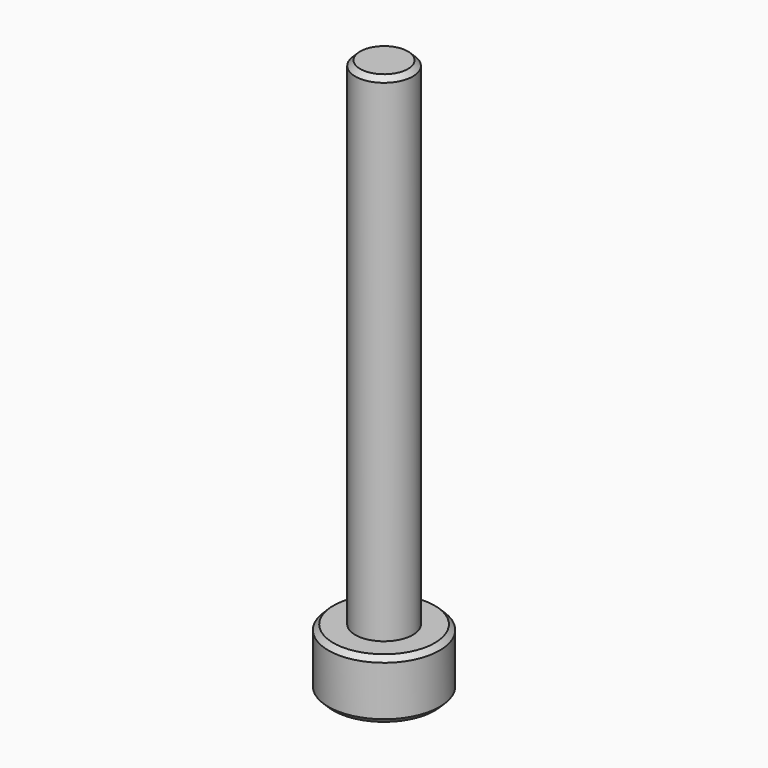
from build123d import *

# Parameters (mm, degrees)
SKETCH_R     = 2.8
PAD_DEPTH    = 3
SKETCH001_R  = 1.45
PAD001_DEPTH = 25
POCKET_DEPTH = 2
CHAMFER_SIZE = 0.25


with BuildPart() as part:
    # Sketch → Pad (new body)
    with BuildSketch(Plane.XY):
        Circle(SKETCH_R)
    extrude(amount=PAD_DEPTH)

    # Sketch001 (on Face3 of Pad) → Pad001 (join)
    with BuildSketch(Plane.XY.offset(3)):
        Circle(SKETCH001_R)
    extrude(amount=PAD001_DEPTH)

    # Sketch002 (on Face2 of Pad001) → Pocket (cut)
    with BuildSketch(Plane(origin=(0, 0, 0), x_dir=(1, 0, 0), z_dir=(0, 0, -1))):
        Polygon((1.259542, 0.814588), (-0.075682, 1.49809), (-1.335225, 0.683502), (-1.259542, -0.814588), (0.075682, -1.49809), (1.335225, -0.683502), align=None)
    extrude(amount=-POCKET_DEPTH, mode=Mode.SUBTRACT)

    # Chamfer
    chamfer_edges = [part.edges().sort_by_distance(p)[0] for p in [
        (-2.8, 0, 3),
        (-2.8, 0, 0),
        (1.297384, -0.065543, 0),
        (0.705454, 1.090796, 0),
        (-0.59193, 1.156339, 0),
        (-1.297384, 0.065543, 0),
        (-0.705454, -1.090796, 0),
        (0.59193, -1.156339, 0),
        (-1.45, 0, 28),
    ]]
    chamfer(chamfer_edges, length=CHAMFER_SIZE)


solid = part.part
